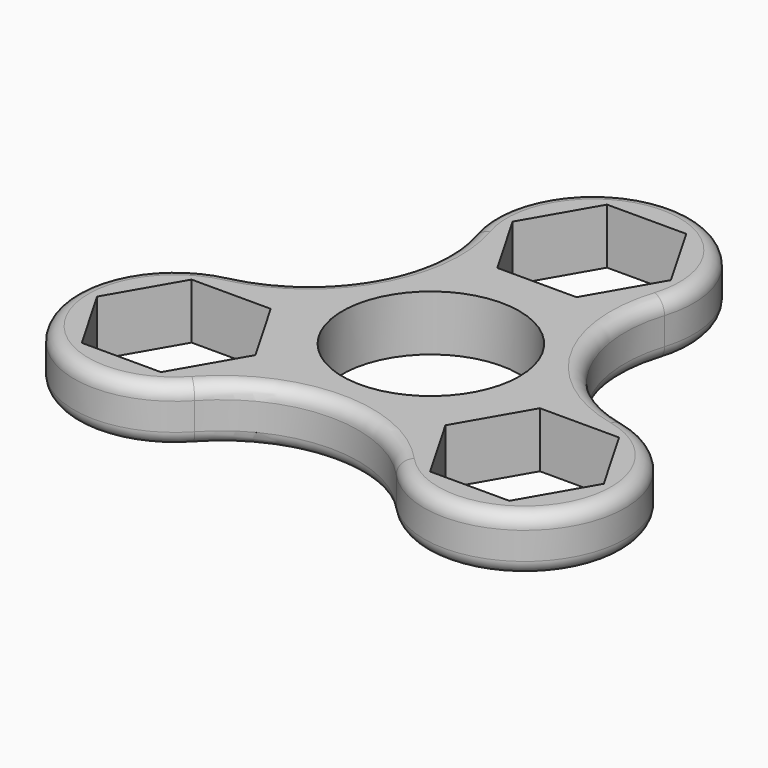
from build123d import *

# Parameters (mm, degrees)
F0_R     = 11.176
F1_DEPTH = 3.5052
F2_R     = 1.778


with BuildPart() as f1:
    # F0 (on Top) → F1 (new body, symmetric)
    with BuildSketch(Plane.XY):
        with BuildLine():
            ThreePointArc((-24.84993, -0.398391), (-33.098704, -19.149794), (-12.733744, -21.369204))
            ThreePointArc((-12.733744, -21.369204), (-0.013391, -15.760536), (12.71565, -21.34946))
            ThreePointArc((12.71565, -21.34946), (33.05076, -19.116913), (24.826735, -0.385487))
            ThreePointArc((24.826735, -0.385487), (13.585768, 7.887112), (12.102172, 21.764941))
            ThreePointArc((12.102172, 21.764941), (0.004478, 38.316773), (-12.094544, 21.765913))
            ThreePointArc((-12.094544, 21.765913), (-13.5859, 7.871711), (-24.84993, -0.398391))
        make_face()
        Polygon((-26.997707, -4.0386), (-16.996384, -4.0386), (-11.995722, -12.7), (-16.996384, -21.3614), (-26.997707, -21.3614), (-31.998368, -12.7), align=None, mode=Mode.SUBTRACT)
        Polygon((16.996384, -21.3614), (11.995722, -12.7), (16.996384, -4.0386), (26.997707, -4.0386), (31.998368, -12.7), (26.997707, -21.3614), align=None, mode=Mode.SUBTRACT)
        Circle(F0_R, mode=Mode.SUBTRACT)
        Polygon((10.001323, 25.4), (5.000662, 16.7386), (-5.000662, 16.7386), (-10.001323, 25.4), (-5.000662, 34.0614), (5.000662, 34.0614), align=None, mode=Mode.SUBTRACT)
        with BuildLine():
            ThreePointArc((-24.84993, -0.398391), (-33.098704, -19.149794), (-12.733744, -21.369204))
            ThreePointArc((-12.733744, -21.369204), (-0.013391, -15.760536), (12.71565, -21.34946))
            ThreePointArc((12.71565, -21.34946), (33.05076, -19.116913), (24.826735, -0.385487))
            ThreePointArc((24.826735, -0.385487), (13.585768, 7.887112), (12.102172, 21.764941))
            ThreePointArc((12.102172, 21.764941), (0.004478, 38.316773), (-12.094544, 21.765913))
            ThreePointArc((-12.094544, 21.765913), (-13.5859, 7.871711), (-24.84993, -0.398391))
        make_face()
        Polygon((-26.997707, -4.0386), (-16.996384, -4.0386), (-11.995722, -12.7), (-16.996384, -21.3614), (-26.997707, -21.3614), (-31.998368, -12.7), align=None, mode=Mode.SUBTRACT)
        Polygon((16.996384, -21.3614), (11.995722, -12.7), (16.996384, -4.0386), (26.997707, -4.0386), (31.998368, -12.7), (26.997707, -21.3614), align=None, mode=Mode.SUBTRACT)
        Circle(F0_R, mode=Mode.SUBTRACT)
        Polygon((10.001323, 25.4), (5.000662, 16.7386), (-5.000662, 16.7386), (-10.001323, 25.4), (-5.000662, 34.0614), (5.000662, 34.0614), align=None, mode=Mode.SUBTRACT)
        with BuildLine():
            ThreePointArc((-24.84993, -0.398391), (-33.098704, -19.149794), (-12.733744, -21.369204))
            ThreePointArc((-12.733744, -21.369204), (-0.013391, -15.760536), (12.71565, -21.34946))
            ThreePointArc((12.71565, -21.34946), (33.05076, -19.116913), (24.826735, -0.385487))
            ThreePointArc((24.826735, -0.385487), (13.585768, 7.887112), (12.102172, 21.764941))
            ThreePointArc((12.102172, 21.764941), (0.004478, 38.316773), (-12.094544, 21.765913))
            ThreePointArc((-12.094544, 21.765913), (-13.5859, 7.871711), (-24.84993, -0.398391))
        make_face()
        Polygon((-26.997707, -4.0386), (-16.996384, -4.0386), (-11.995722, -12.7), (-16.996384, -21.3614), (-26.997707, -21.3614), (-31.998368, -12.7), align=None, mode=Mode.SUBTRACT)
        Polygon((16.996384, -21.3614), (11.995722, -12.7), (16.996384, -4.0386), (26.997707, -4.0386), (31.998368, -12.7), (26.997707, -21.3614), align=None, mode=Mode.SUBTRACT)
        Circle(F0_R, mode=Mode.SUBTRACT)
        Polygon((10.001323, 25.4), (5.000662, 16.7386), (-5.000662, 16.7386), (-10.001323, 25.4), (-5.000662, 34.0614), (5.000662, 34.0614), align=None, mode=Mode.SUBTRACT)
        with BuildLine():
            ThreePointArc((-24.84993, -0.398391), (-33.098704, -19.149794), (-12.733744, -21.369204))
            ThreePointArc((-12.733744, -21.369204), (-0.013391, -15.760536), (12.71565, -21.34946))
            ThreePointArc((12.71565, -21.34946), (33.05076, -19.116913), (24.826735, -0.385487))
            ThreePointArc((24.826735, -0.385487), (13.585768, 7.887112), (12.102172, 21.764941))
            ThreePointArc((12.102172, 21.764941), (0.004478, 38.316773), (-12.094544, 21.765913))
            ThreePointArc((-12.094544, 21.765913), (-13.5859, 7.871711), (-24.84993, -0.398391))
        make_face()
        Polygon((-26.997707, -4.0386), (-16.996384, -4.0386), (-11.995722, -12.7), (-16.996384, -21.3614), (-26.997707, -21.3614), (-31.998368, -12.7), align=None, mode=Mode.SUBTRACT)
        Polygon((16.996384, -21.3614), (11.995722, -12.7), (16.996384, -4.0386), (26.997707, -4.0386), (31.998368, -12.7), (26.997707, -21.3614), align=None, mode=Mode.SUBTRACT)
        Circle(F0_R, mode=Mode.SUBTRACT)
        Polygon((10.001323, 25.4), (5.000662, 16.7386), (-5.000662, 16.7386), (-10.001323, 25.4), (-5.000662, 34.0614), (5.000662, 34.0614), align=None, mode=Mode.SUBTRACT)
    extrude(amount=F1_DEPTH, both=True)

    # F2
    f2_edges = [f1.edges().sort_by_distance(p)[0] for p in [
        (-33.098704, -19.149794, 3.5052),
        (-0.013391, -15.760536, 3.5052),
        (-13.5859, 7.871711, 3.5052),
        (0.004478, 38.316773, 3.5052),
        (13.585768, 7.887112, 3.5052),
        (33.05076, -19.116913, 3.5052),
        (13.585768, 7.887112, -3.5052),
        (0.004478, 38.316773, -3.5052),
        (-13.5859, 7.871711, -3.5052),
        (-33.098704, -19.149794, -3.5052),
        (-0.013391, -15.760536, -3.5052),
        (33.05076, -19.116913, -3.5052),
    ]]
    fillet(f2_edges, radius=F2_R)


solid = f1.part
